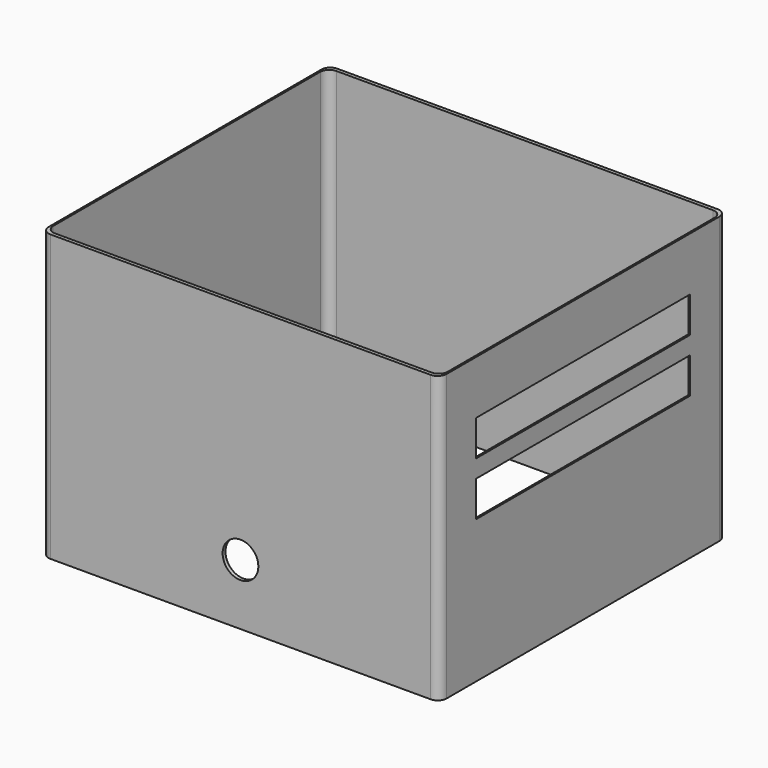
from build123d import *

# Parameters (mm, degrees)
F0_W     = 223
F0_H     = 201
F1_DEPTH = 160
F2_W     = 221
F2_H     = 197
F3_DEPTH = 160
F4_W     = 150
F4_H     = 20
F5_DEPTH = 25
F6_W     = 150
F6_H     = 20
F7_DEPTH = 25
F8_R     = 10
F9_DEPTH = 25
F10_R    = 5


with BuildPart() as f1:
    # F0 (on Top) → F1 (new body)
    with BuildSketch(Plane.XY):
        Rectangle(F0_W, F0_H)
    extrude(amount=F1_DEPTH)

    # F2 (on face) → F3 (cut)
    with BuildSketch(Plane.XY.offset(160)):
        Rectangle(F2_W, F2_H)
    extrude(amount=-F3_DEPTH, mode=Mode.SUBTRACT)

    # F4 (on face) → F5 (cut)
    with BuildSketch(Plane.YZ.offset(111.5)):
        with Locations((0, 120)):
            Rectangle(F4_W, F4_H)
        with Locations((0, 90)):
            Rectangle(F4_W, F4_H)
    extrude(amount=-F5_DEPTH, mode=Mode.SUBTRACT)

    # F6 (on face) → F7 (cut)
    with BuildSketch(Plane(origin=(-111.5, 0, 0), x_dir=(0, -1, 0), z_dir=(-1, 0, 0))):
        with Locations((0, 15)):
            Rectangle(F6_W, F6_H)
    extrude(amount=-F7_DEPTH, mode=Mode.SUBTRACT)

    # F8 (on face) → F9 (cut)
    with BuildSketch(Plane.XZ.offset(100.5)):
        with Locations((0, 34.113634)):
            Circle(F8_R)
    extrude(amount=-F9_DEPTH, mode=Mode.SUBTRACT)

    # F10
    f10_edges = [f1.edges().sort_by_distance(p)[0] for p in [
        (-110.5, -98.5, 80),
        (-111.5, -100.5, 80),
        (-111.5, 100.5, 80),
        (-110.5, 98.5, 80),
        (110.5, 98.5, 80),
        (110.5, -98.5, 80),
        (111.5, 100.5, 80),
        (111.5, -100.5, 80),
    ]]
    fillet(f10_edges, radius=F10_R)


solid = f1.part
